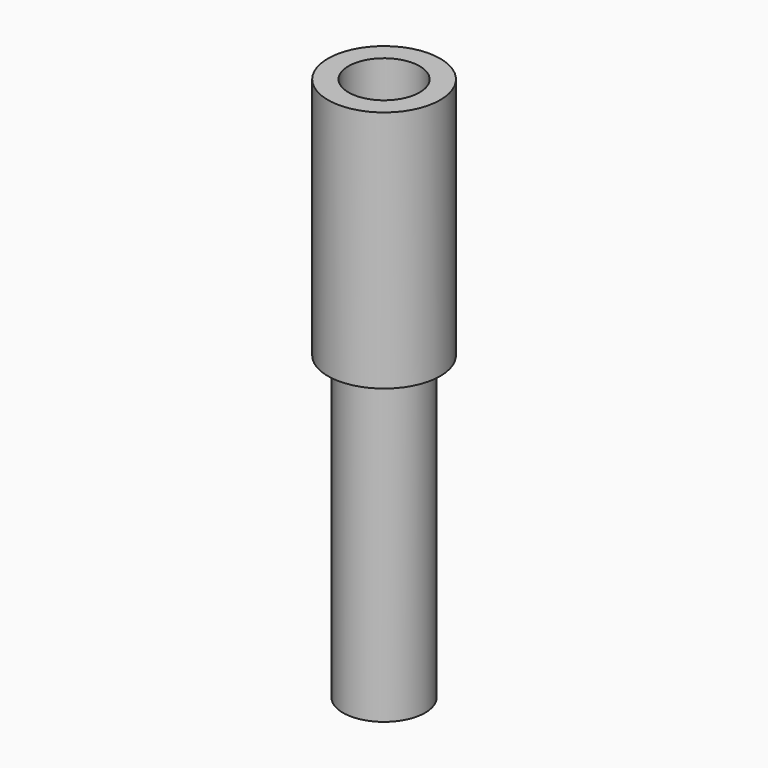
from build123d import *

# Parameters (mm, degrees)
F0_R     = 41
F0_R_2   = 26
F1_DEPTH = 177.5
F2_R     = 30
F2_R_2   = 26
F3_DEPTH = 220


with BuildPart() as f1:
    # F0 (on Top) → F1 (new body)
    with BuildSketch(Plane.XY):
        Circle(F0_R)
        Circle(F0_R_2, mode=Mode.SUBTRACT)
    extrude(amount=F1_DEPTH)

    # F2 (on Top) → F3 (join)
    with BuildSketch(Plane.XY):
        Circle(F2_R)
        Circle(F2_R_2, mode=Mode.SUBTRACT)
    extrude(amount=-F3_DEPTH)


solid = f1.part
